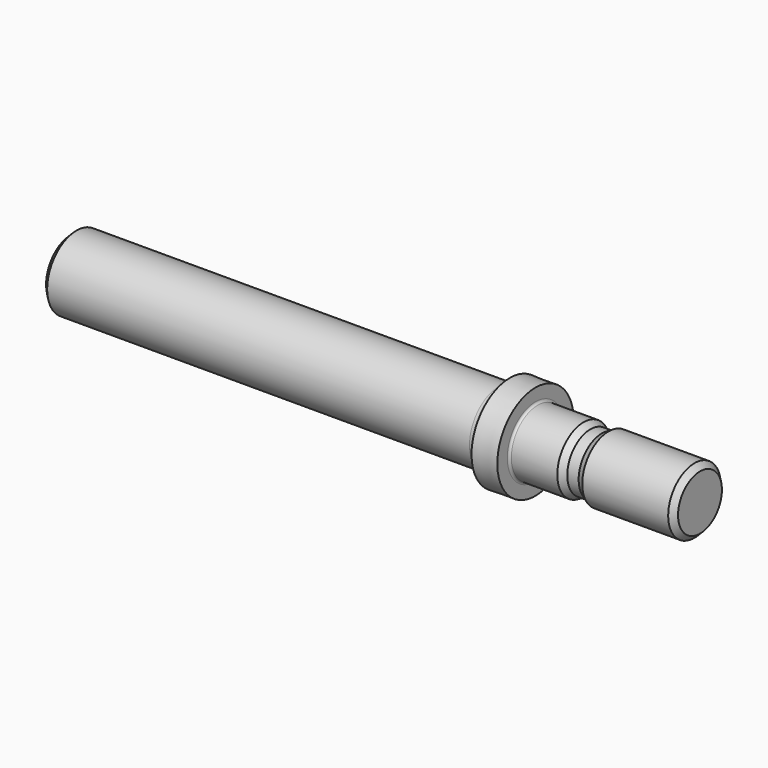
from build123d import *

# Parameters (mm, degrees)
F2_SIZE = 1.5
F3_SIZE = 1.5


with BuildPart() as f1:
    # F0 (on Front) → F1 (revolve)
    with BuildSketch(Plane.XZ):
        with BuildLine():
            Line((5, 13.1), (5, 13.038275))
            ThreePointArc((5, 13.038275), (4.12132, 10.916955), (2, 10.038275))
            Line((2, 10.038275), (-115, 10.038275))
            Line((-115, 10.038275), (-115, 0))
            Line((-115, 0), (56.999728, 0))
            Line((56.999728, 0), (56.999728, 9))
            Line((56.999728, 9), (31.999728, 9))
            Line((31.999728, 9), (30.143602, 7.910138))
            Line((30.143602, 7.910138), (27.029878, 7.910138))
            Line((27.029878, 7.910138), (25.173751, 9))
            Line((25.173751, 9), (12.615061, 9))
            ThreePointArc((12.615061, 9), (12.179955, 9.180227), (11.999728, 9.615333))
            Line((11.999728, 9.615333), (11.999728, 13.038275))
            Line((11.999728, 13.038275), (5, 13.1))
        make_face()
    revolve(axis=Axis((-29.000136, 0, 0), (1, 0, 0)))

    # F2
    f2_edges = [f1.edges().sort_by_distance(p)[0] for p in [
        (56.999728, 0, -9),
    ]]
    chamfer(f2_edges, length=F2_SIZE)

    # F3
    f3_edges = [f1.edges().sort_by_distance(p)[0] for p in [
        (-115, 0, -10.038275),
    ]]
    chamfer(f3_edges, length=F3_SIZE)


solid = f1.part
